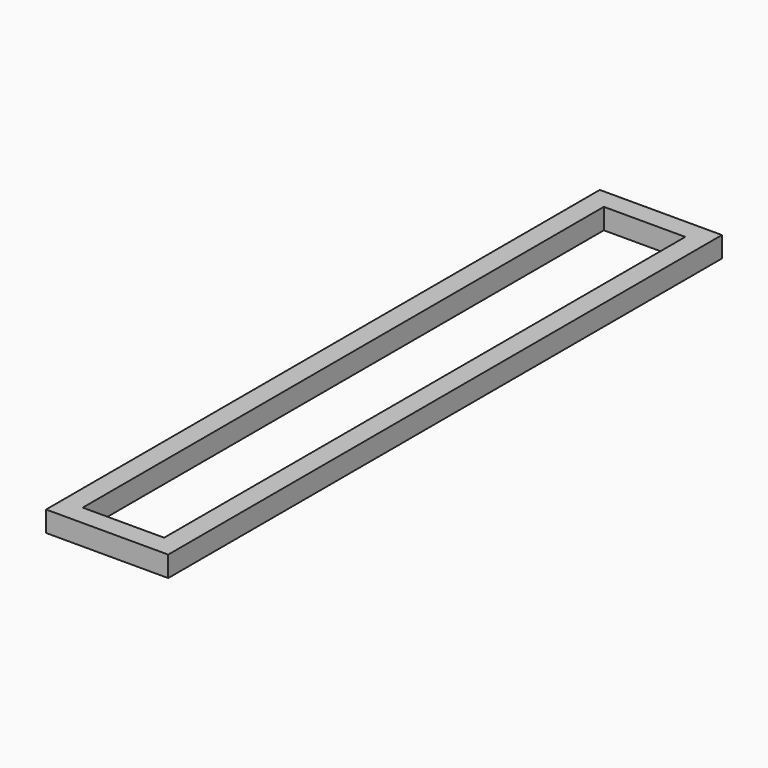
from build123d import *

# Parameters (mm, degrees)
F0_W     = 15
F0_H     = 85
F1_DEPTH = 2.54
F2_W     = 10
F2_H     = 80
F3_DEPTH = 2.541


with BuildPart() as f1:
    # F0 (on Top) → F1 (new body)
    with BuildSketch(Plane.XY):
        Rectangle(F0_W, F0_H)
    extrude(amount=F1_DEPTH)

    # F2 (on Top) → F3 (cut, through all)
    with BuildSketch(Plane.XY):
        Rectangle(F2_W, F2_H)
    extrude(amount=F3_DEPTH, mode=Mode.SUBTRACT)


solid = f1.part
